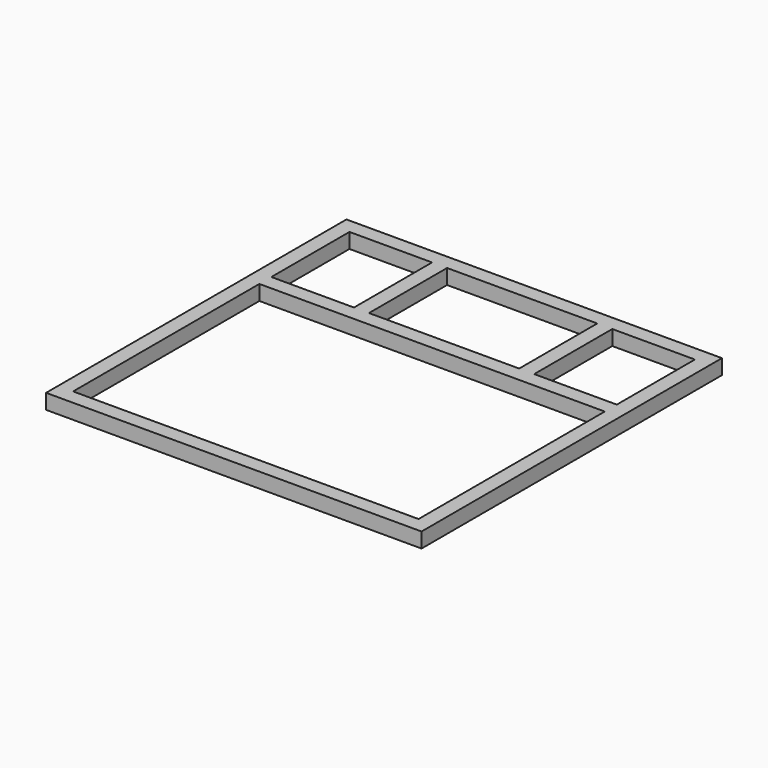
from build123d import *

# Parameters (mm, degrees)
F0_W     = 1000
F0_H     = 1000
F0_W_2   = 920
F0_H_2   = 920
F1_DEPTH = 40
F3_DEPTH = 40


with BuildPart() as f1:
    # F0 (on Top) → F1 (new body)
    with BuildSketch(Plane.XY):
        Rectangle(F0_W, F0_H)
        Rectangle(F0_W_2, F0_H_2, mode=Mode.SUBTRACT)
    extrude(amount=F1_DEPTH)

    # F2 (on Top) → F3 (join)
    with BuildSketch(Plane.XY):
        Polygon((-460, 200), (-460, 160), (460, 160), (460, 200), (240, 200), (240, 460), (200, 460), (200, 200), (-200, 200), (-200, 460), (-240, 460), (-240, 200), align=None)
    extrude(amount=F3_DEPTH)


solid = f1.part
